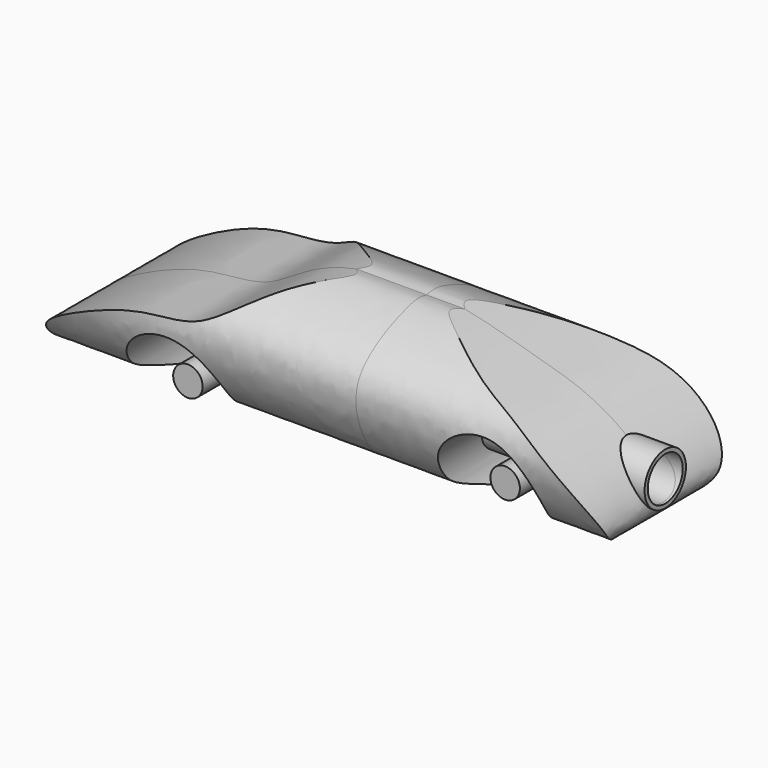
from build123d import *

# Parameters (mm, degrees)
F1_DEPTH       = 22.5
F2_W           = 69.6159116924
F2_H           = 50.3783514723
F3_DEPTH       = 85
F4_R           = 5.5
F5_DEPTH       = 60
F5_DEPTH_BACK  = 60
F4_R_2         = 6.5
F6_DEPTH       = 60
F6_DEPTH_BACK  = 60
F7_R           = 3.7
F8_DEPTH       = 15
F8_DEPTH_BACK  = 15
F9_R           = 3.7
F10_DEPTH      = 15
F10_DEPTH_BACK = 15


with BuildPart() as f1:
    # F0 (on Front) → F1 (new body, symmetric)
    with BuildSketch(Plane.XZ):
        with BuildLine():
            add(Edge.make_bspline(
                [(-59.6370546873, -4.1930564009), (-75.2606871758, -3.1099328522), (-86.5359149434, 3.258362347), (-70.2529243665, 12.8859431508), (-54.5225659317, 18.7233804706), (-39.6500513688, 18.2211787039), (-27.1451112439, 29.1058342706), (-5.836967793, 32.3978532986), (11.436345571, 30.398939514), (29.0287326639, 25.025437369), (44.1720474581, 21.0997735149), (63.8100730831, 4.9700256215), (57.5528678047, -2.355976517), (41.0499236812, -4.107076764)],
                knots=[0, 0, 0, 0, 0.1033456875, 0.1799090357, 0.2712351474, 0.3518824925, 0.437398935, 0.5362421473, 0.6271568829, 0.7181728782, 0.8063712276, 0.9023059749, 1, 1, 1, 1], degree=3))
            ThreePointArc((-59.6370546873, -4.1930564009), (-47.843014207, 14.275088545), (-36.0489737267, -4.1930564009))
            add(Edge.make_bspline(
                [(-36.0489737267, -4.1930564009), (-28.7260605392, -3.4541087334), (-24.7406386517, 3.7943180764), (10.3888410035, -2.8682728594), (22.48358174, -4.107076764)],
                knots=[0, 0, 0, 0, 0.3687420557, 1, 1, 1, 1], degree=3))
            ThreePointArc((22.48358174, -4.107076764), (31.7667527106, 17.9936230294), (41.0499236812, -4.107076764))
        make_face()
    extrude(amount=F1_DEPTH, both=True)

    # F2 (on Right) → F3 (cut, symmetric)
    with BuildSketch(Plane.YZ):
        with Locations((1.5752073377, 14.7635829635)):
            Rectangle(F2_W, F2_H)
        with BuildLine():
            add(Edge.make_bspline(
                [(0, 30.2215944976), (-1.8495455863, 30.5888121292), (-3.2309671296, 30.4872103395), (-6.4233083482, 30.0108596325), (-26.7192744096, 22.4011438932), (-18.7472087117, 3.6660184151), (-14.2778811479, 0.1204940876), (-0.4740960719, -4.2816517981), (0, -4.0531530976)],
                knots=[0, 0, 0, 0, 0.0981448166, 0.1922887079, 0.4210130513, 0.6340875089, 0.7844811649, 0.9812317993, 0.9812317993, 0.9812317993, 0.9812317993], degree=3))
            add(Edge.make_bspline(
                [(0, 30.2215944976), (1.8495455863, 30.5888121292), (3.2309671296, 30.4872103395), (6.4233083482, 30.0108596325), (26.7192744096, 22.4011438932), (18.7472087117, 3.6660184151), (14.2778811479, 0.1204940876), (0.4740960719, -4.2816517981), (0, -4.0531530976)],
                knots=[0, 0, 0, 0, 0.0981448166, 0.1922887079, 0.4210130513, 0.6340875089, 0.7844811649, 0.9812317993, 0.9812317993, 0.9812317993, 0.9812317993], degree=3))
        make_face(mode=Mode.SUBTRACT)
    extrude(amount=F3_DEPTH, both=True, mode=Mode.SUBTRACT)

    # F4 (on face) → F5 (cut, two sides)
    with BuildSketch(Plane.YZ) as f5_sk:
        with Locations((0, 9.0296054259)):
            Circle(F4_R)
    extrude(amount=F5_DEPTH, mode=Mode.SUBTRACT)
    extrude(f5_sk.sketch, amount=-F5_DEPTH_BACK, mode=Mode.SUBTRACT)

    # F4 (on face) → F6 (join, two sides)
    with BuildSketch(Plane.YZ) as f6_sk:
        with Locations((0, 9.0296054259)):
            Circle(F4_R_2)
        with Locations((0, 9.0296054259)):
            Circle(F4_R, mode=Mode.SUBTRACT)
    extrude(amount=F6_DEPTH)
    extrude(f6_sk.sketch, amount=-F6_DEPTH_BACK)

    # F7 (on Front) → F8 (join, two sides)
    with BuildSketch(Plane.XZ) as f8_sk:
        with Locations((-47.9525625706, 1.627206686)):
            Circle(F7_R)
    extrude(amount=F8_DEPTH)
    extrude(f8_sk.sketch, amount=-F8_DEPTH_BACK)

    # F9 (on Front) → F10 (join, two sides)
    with BuildSketch(Plane.XZ) as f10_sk:
        with Locations((31.769067049, 5.022270605)):
            Circle(F9_R)
    extrude(amount=F10_DEPTH)
    extrude(f10_sk.sketch, amount=-F10_DEPTH_BACK)


solid = f1.part
